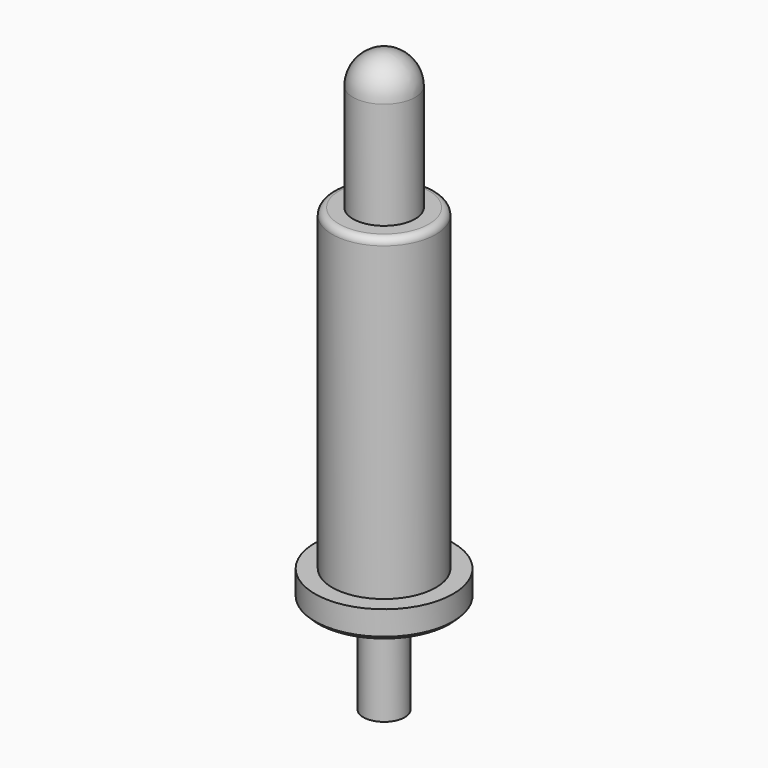
from build123d import *

# Parameters (mm, degrees)
SKETCH_R     = 1
PAD_DEPTH    = 0.4
SKETCH001_R  = 0.75
PAD001_DEPTH = 4.6
SKETCH002_R  = 0.45
PAD002_DEPTH = 2
SKETCH003_R  = 0.3
PAD003_DEPTH = 1.4
CHAMFER_SIZE = 0.05
FILLET_R     = 0.1
FILLET001_R  = 0.45


with BuildPart() as part:
    # Sketch → Pad (new body)
    with BuildSketch(Plane.XY):
        Circle(SKETCH_R)
    extrude(amount=PAD_DEPTH)

    # Sketch001 (on Face3 of Pad) → Pad001 (join)
    with BuildSketch(Plane.XY.offset(0.4)):
        Circle(SKETCH001_R)
    extrude(amount=PAD001_DEPTH)

    # Sketch002 (on Face5 of Pad001) → Pad002 (join)
    with BuildSketch(Plane.XY.offset(5)):
        Circle(SKETCH002_R)
    extrude(amount=PAD002_DEPTH)

    # Sketch003 (on Face2 of Pad002) → Pad003 (join)
    with BuildSketch(Plane(origin=(0, 0, 0), x_dir=(1, 0, 0), z_dir=(0, 0, -1))):
        Circle(SKETCH003_R)
    extrude(amount=PAD003_DEPTH)

    # Chamfer
    chamfer_edges = [part.edges().sort_by_distance(p)[0] for p in [
        (-1, 0, 0),
    ]]
    chamfer(chamfer_edges, length=CHAMFER_SIZE)

    # Fillet
    fillet_edges = [part.edges().sort_by_distance(p)[0] for p in [
        (-0.75, 0, 5),
    ]]
    fillet(fillet_edges, radius=FILLET_R)

    # Fillet001
    fillet001_edges = [part.edges().sort_by_distance(p)[0] for p in [
        (-0.45, 0, 7),
    ]]
    fillet(fillet001_edges, radius=FILLET001_R)


solid = part.part
